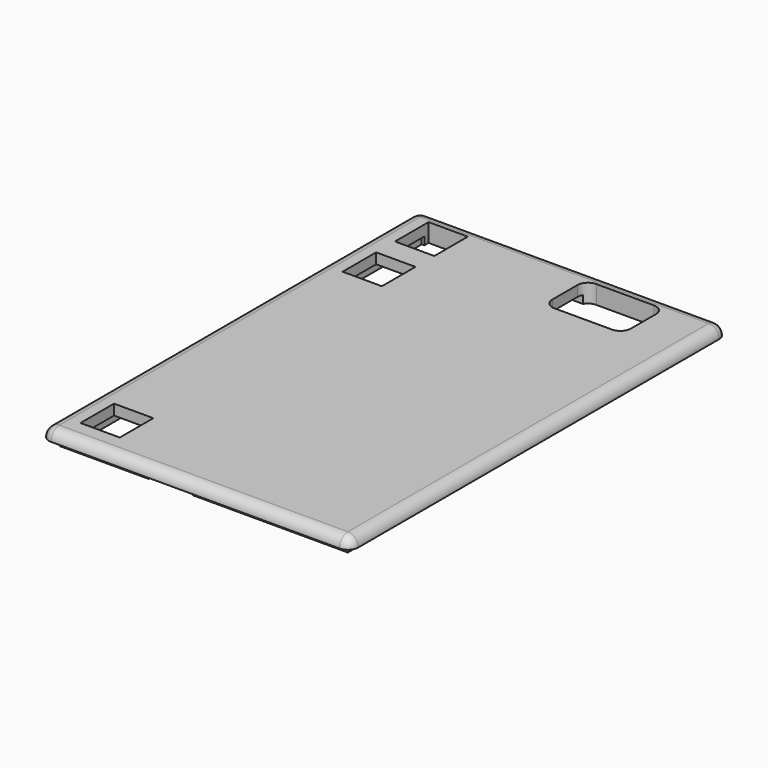
from build123d import *

# Parameters (mm, degrees)
BOX001_W             = 59
BOX001_H             = 90
BOX001_DEPTH         = 2
SKETCH003_W          = 55
SKETCH003_H          = 86
SKETCH003_W_2        = 52
SKETCH003_H_2        = 83
PAD_DEPTH            = 1.5
SKETCH002_W          = 7.5
SKETCH002_H          = 8
POCKET002_DEPTH      = 2.001
POCKET002_DEPTH_BACK = 1.501
FILLET001_R          = 1.99
POCKET003_DEPTH      = 3.501


with BuildPart() as part:
    # Box001 → Box001 (join)
    with BuildSketch(Plane.XY):
        with Locations((29.5, 45)):
            Rectangle(BOX001_W, BOX001_H)
    extrude(amount=BOX001_DEPTH)

    # Sketch003 (on Face5 of Box001) → Pad (join)
    with BuildSketch(Plane(origin=(0, 0, 0), x_dir=(1, 0, 0), z_dir=(0, 0, -1))):
        with Locations((29.5, -45)):
            Rectangle(SKETCH003_W, SKETCH003_H)
        with Locations((29.5, -45)):
            Rectangle(SKETCH003_W_2, SKETCH003_H_2, mode=Mode.SUBTRACT)
    extrude(amount=PAD_DEPTH)

    # Sketch002 (on Face5 of Box001) → Pocket002 (cut, two sides)
    with BuildSketch(Plane(origin=(0, 0, 0), x_dir=(1, 0, 0), z_dir=(0, 0, -1))) as pocket002_sk:
        with Locations((7.75, -8.5)):
            Rectangle(SKETCH002_W, SKETCH002_H)
        with Locations((7.75, -71)):
            Rectangle(SKETCH002_W, SKETCH002_H)
        with Locations((7.75, -83.5)):
            Rectangle(SKETCH002_W, SKETCH002_H)
        with BuildLine():
            Line((34, -79.5), (34, -85.5))
            ThreePointArc((34, -85.5), (34.585786, -86.914214), (36, -87.5))
            Line((36, -87.5), (47, -87.5))
            ThreePointArc((47, -87.5), (48.414214, -86.914214), (49, -85.5))
            Line((49, -85.5), (49, -79.5))
            ThreePointArc((49, -79.5), (48.414214, -78.085786), (47, -77.5))
            Line((47, -77.5), (36, -77.5))
            ThreePointArc((36, -77.5), (34.585786, -78.085786), (34, -79.5))
        make_face()
    extrude(amount=-POCKET002_DEPTH, mode=Mode.SUBTRACT)
    extrude(pocket002_sk.sketch, amount=POCKET002_DEPTH_BACK, mode=Mode.SUBTRACT)

    # Fillet001
    fillet001_edges = [part.edges().sort_by_distance(p)[0] for p in [
        (0, 45, 2),
        (29.5, 0, 2),
        (59, 45, 2),
        (29.5, 90, 2),
        (59, 0, 1),
        (0, 0, 1),
        (59, 90, 1),
        (0, 90, 1),
    ]]
    fillet(fillet001_edges, radius=FILLET001_R)

    # Sketch005 (on Face14 of Pad) → Pocket003 (cut, through all)
    with BuildSketch(Plane(origin=(0, 3.5, 0), x_dir=(-1, 0, 0), z_dir=(0, 1, 0))):
        with BuildLine():
            ThreePointArc((-26, 0), (-27.06066, -0.43934), (-27.5, -1.5))
            Line((-27.5, -1.5), (-19, -1.5))
            ThreePointArc((-19, -1.5), (-19.43934, -0.43934), (-20.5, 0))
            Line((-26, 0), (-20.5, 0))
        make_face()
    extrude(amount=-POCKET003_DEPTH, mode=Mode.SUBTRACT)


solid = part.part
